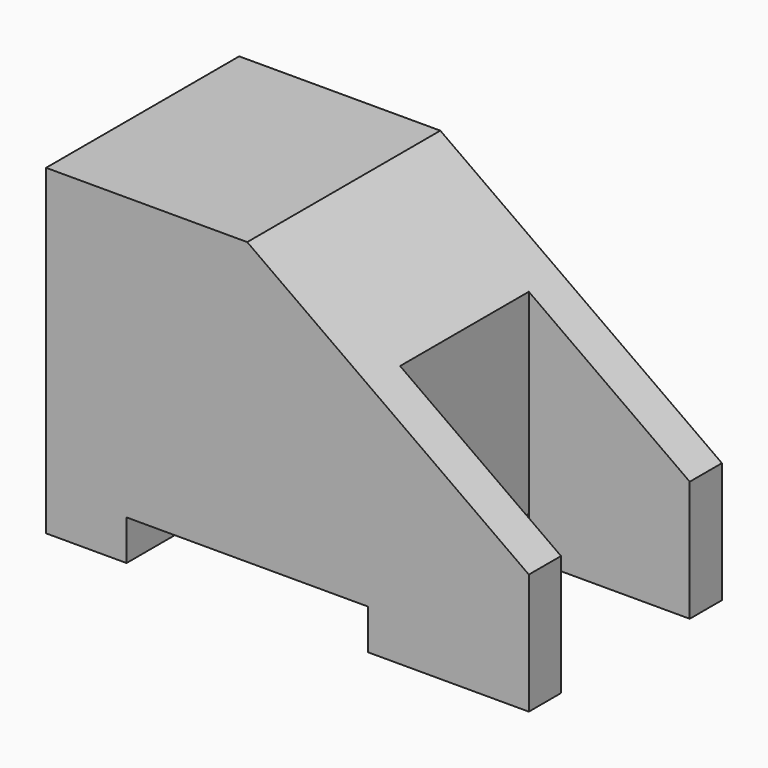
from build123d import *

# Parameters (mm, degrees)
F1_DEPTH = 15
F2_W     = 10
F2_H     = 10
F3_DEPTH = 20.001


with BuildPart() as f1:
    # F0 (on Front) → F1 (new body)
    with BuildSketch(Plane.XZ):
        Polygon((12.5, 20), (0, 20), (0, 0), (5, 0), (5, 2.5), (20, 2.5), (20, 0), (30, 0), (30, 7.5), align=None)
    extrude(amount=F1_DEPTH)

    # F2 (on face) → F3 (cut, through all)
    with BuildSketch(Plane(origin=(0, 0, 0), x_dir=(1, 0, 0), z_dir=(0, 0, -1))):
        with Locations((25, 7.5)):
            Rectangle(F2_W, F2_H)
    extrude(amount=-F3_DEPTH, mode=Mode.SUBTRACT)


solid = f1.part
